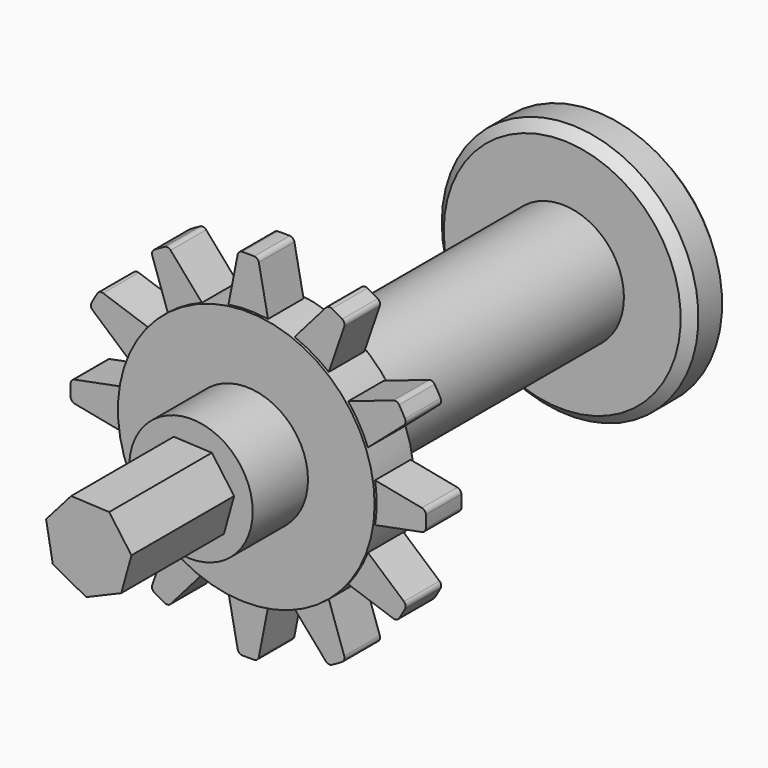
from build123d import *

# Parameters (mm, degrees)
F0_R      = 26
F1_DEPTH  = 10
F4_DEPTH  = 4.5
F5_R      = 1
F6_COUNT  = 12
F7_R      = 12.5
F8_DEPTH  = 98
F9_DEPTH  = 14
F11_DEPTH = 26
F13_R     = 26
F14_DEPTH = 5
F15_SIZE  = 2


with BuildPart() as f1:
    # F0 (on Front) → F1 (new body)
    with BuildSketch(Plane.XZ):
        Circle(F0_R)
    extrude(amount=F1_DEPTH)

    # F3 (on mid) → F4 (join, symmetric)
    with BuildSketch(Plane.XZ.offset(5)):
        with BuildLine():
            Line((-35.9444015112, -2), (-25.6904651573, -4))
            Line((-25.6904651573, -4), (-25.6904651573, 4))
            Line((-25.6904651573, 4), (-35.9444015112, 2))
            ThreePointArc((-35.9444015112, 2), (-36, 0), (-35.9444015112, -2))
        make_face()
    extrude(amount=F4_DEPTH, both=True)

    # F5
    f5_edges = [f1.edges().sort_by_distance(p)[0] for p in [
        (-35.944402, -5, -2),
        (-35.944402, -5, 2),
    ]]
    fillet(f5_edges, radius=F5_R)


with BuildPart() as f6_1:
    # F6: instance of F1
    add(f1.part.rotate(Axis((0, 0, 0), (0, -1, 0)), 1 * 360 / F6_COUNT))


with BuildPart() as f6_2:
    # F6: instance of F1
    add(f1.part.rotate(Axis((0, 0, 0), (0, -1, 0)), 2 * 360 / F6_COUNT))


with BuildPart() as f6_3:
    # F6: instance of F1
    add(f1.part.rotate(Axis((0, 0, 0), (0, -1, 0)), 3 * 360 / F6_COUNT))


with BuildPart() as f6_4:
    # F6: instance of F1
    add(f1.part.rotate(Axis((0, 0, 0), (0, -1, 0)), 4 * 360 / F6_COUNT))


with BuildPart() as f6_5:
    # F6: instance of F1
    add(f1.part.rotate(Axis((0, 0, 0), (0, -1, 0)), 5 * 360 / F6_COUNT))


with BuildPart() as f6_6:
    # F6: instance of F1
    add(f1.part.rotate(Axis((0, 0, 0), (0, -1, 0)), 6 * 360 / F6_COUNT))


with BuildPart() as f6_7:
    # F6: instance of F1
    add(f1.part.rotate(Axis((0, 0, 0), (0, -1, 0)), 7 * 360 / F6_COUNT))


with BuildPart() as f6_8:
    # F6: instance of F1
    add(f1.part.rotate(Axis((0, 0, 0), (0, -1, 0)), 8 * 360 / F6_COUNT))


with BuildPart() as f6_9:
    # F6: instance of F1
    add(f1.part.rotate(Axis((0, 0, 0), (0, -1, 0)), 9 * 360 / F6_COUNT))


with BuildPart() as f6_10:
    # F6: instance of F1
    add(f1.part.rotate(Axis((0, 0, 0), (0, -1, 0)), 10 * 360 / F6_COUNT))


with BuildPart() as f6_11:
    # F6: instance of F1
    add(f1.part.rotate(Axis((0, 0, 0), (0, -1, 0)), 11 * 360 / F6_COUNT))


with BuildPart() as f8:
    # F7 (on face) → F8 (new body)
    with BuildSketch(Plane.XZ.offset(10)):
        Circle(F7_R)
    extrude(amount=-F8_DEPTH)


with BuildPart() as f9:
    # F9 (new): a face of the model
    f9_faces = [f8.part.faces().sort_by_distance(p)[0] for p in [
        (0, -10, 0),
    ]]
    extrude(f9_faces, amount=F9_DEPTH)

    # F10 (on face) → F11 (join)
    with BuildSketch(Plane.XZ.offset(24)):
        Polygon((8.7402150444, 1.5656130559), (4.2253893698, 7.8095190592), (-3.4712406825, 8.1726979258), (-8.5539557005, 2.3816685616), (-7.1953676071, -5.2028058067), (-0.4185209468, -8.8694612846), (6.6734805227, -5.8572315112), align=None)
    extrude(amount=F11_DEPTH)


with BuildPart() as f1_1:
    add(f1.part)

    add(f6_1.part)  # F14 merges F6_1

    add(f6_2.part)  # F14 merges F6_2

    add(f6_3.part)  # F14 merges F6_3

    add(f6_4.part)  # F14 merges F6_4

    add(f6_5.part)  # F14 merges F6_5

    add(f6_6.part)  # F14 merges F6_6

    add(f6_7.part)  # F14 merges F6_7

    add(f6_8.part)  # F14 merges F6_8

    add(f6_9.part)  # F14 merges F6_9

    add(f6_10.part)  # F14 merges F6_10

    add(f6_11.part)  # F14 merges F6_11

    add(f8.part)  # F14 merges F8

    add(f9.part)  # F14 merges F9
    # F13 (on offset) → F14 (join, symmetric)
    with BuildSketch(Plane(origin=(0, 75, 0), x_dir=(-1, 0, 0), z_dir=(0, 1, 0))):
        Circle(F13_R)
    extrude(amount=F14_DEPTH, both=True)

    # F15
    f15_edges = [f1_1.edges().sort_by_distance(p)[0] for p in [
        (26, 80, 0),
        (26, 70, 0),
    ]]
    chamfer(f15_edges, length=F15_SIZE)


solid = f1_1.part
